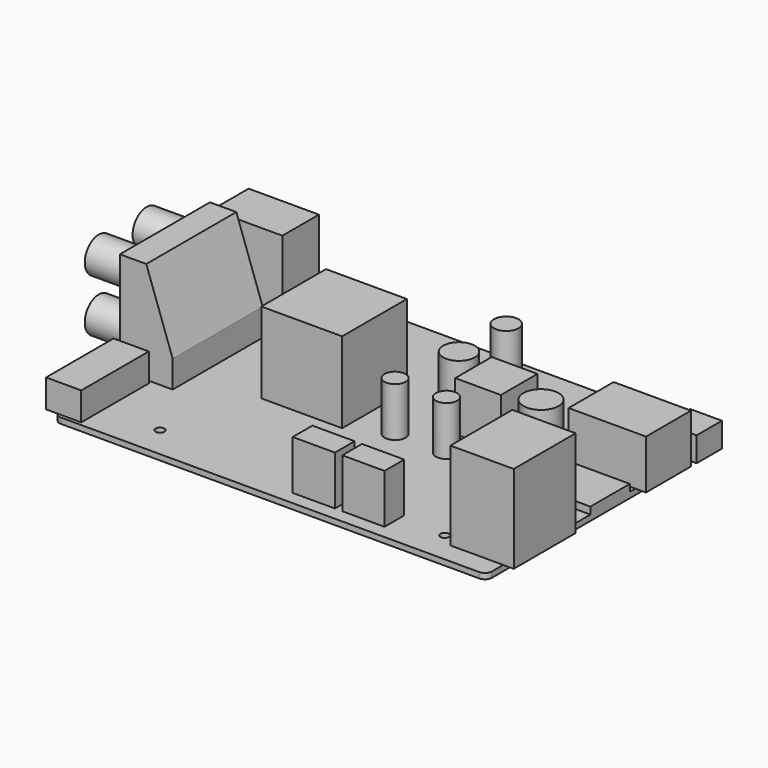
from build123d import *

# Parameters (mm, degrees)
F0_R      = 1.25
F1_DEPTH  = 1.6
F2_W      = 3
F2_H      = 7
F2_W_2    = 6
F3_DEPTH  = 5
F4_DEPTH  = 8
F2_W_3    = 14
F2_H_2    = 16
F2_W_4    = 13
F5_DEPTH  = 29
F6_W      = 32
F6_H      = 29
F6_R      = 5
F6_R_2    = 4
F7_DEPTH  = 12
F9_DEPTH  = 32
F2_H_3    = 13
F2_W_5    = 17
F10_DEPTH = 26
F2_H_4    = 9
F11_DEPTH = 7
F2_W_6    = 19
F2_R      = 3.5
F2_R_2    = 4.5
F2_R_3    = 5
F2_R_4    = 3
F2_W_7    = 12
F12_DEPTH = 14
F2_W_8    = 15
F2_H_5    = 14
F13_DEPTH = 2
F2_H_6    = 22
F14_DEPTH = 25
F2_W_9    = 23
F2_H_7    = 23
F15_DEPTH = 23


with BuildPart() as f1:
    # F0 (on Top) → F1 (new body)
    with BuildSketch(Plane.XY):
        with BuildLine():
            Line((57.5, 42), (-61.5, 42))
            ThreePointArc((-61.5, 42), (-62.914214, 41.414214), (-63.5, 40))
            Line((-63.5, 40), (-63.5, -40))
            ThreePointArc((-63.5, -40), (-62.914214, -41.414214), (-61.5, -42))
            Line((-61.5, -42), (57.5, -42))
            ThreePointArc((57.5, -42), (58.914214, -41.414214), (59.5, -40))
            Line((59.5, -40), (59.5, 40))
            ThreePointArc((59.5, 40), (58.914214, 41.414214), (57.5, 42))
        make_face()
        with Locations((-40.5, -33)):
            Circle(F0_R, mode=Mode.SUBTRACT)
        with Locations((40.5, -33)):
            Circle(F0_R, mode=Mode.SUBTRACT)
        with Locations((-40.5, 33)):
            Circle(F0_R, mode=Mode.SUBTRACT)
        with Locations((40.5, 33)):
            Circle(F0_R, mode=Mode.SUBTRACT)
    extrude(amount=F1_DEPTH)

    # F2 (on face) → F3 (join)
    with BuildSketch(Plane.XY.offset(1.6)):
        with Locations((-65, 36.5)):
            Rectangle(F2_W, F2_H)
        with Locations((-60.5, 36.5)):
            Rectangle(F2_W_2, F2_H)
    extrude(amount=F3_DEPTH)

    # F2 (on face) → F4 (join)
    with BuildSketch(Plane.XY.offset(1.6)):
        with BuildLine():
            Line((-56.5, -17), (-63.5, -17))
            Line((-63.5, -17), (-63.5, -40))
            ThreePointArc((-63.5, -40), (-63.431852, -40.517638), (-63.232051, -41))
            Line((-63.232051, -41), (-56.5, -41))
            Line((-56.5, -41), (-56.5, -17))
        make_face()
        with BuildLine():
            Line((-63.5, -40), (-63.5, -17))
            Line((-63.5, -17), (-66.5, -17))
            Line((-66.5, -17), (-66.5, -41))
            Line((-66.5, -41), (-63.232051, -41))
            ThreePointArc((-63.232051, -41), (-63.431852, -40.517638), (-63.5, -40))
        make_face()
    extrude(amount=F4_DEPTH)

    # F2 (on face) → F5 (join)
    with BuildSketch(Plane.XY.offset(1.6)):
        with Locations((-70.5, 8)):
            Rectangle(F2_W_3, F2_H_2)
        with Locations((-57, 8)):
            Rectangle(F2_W_4, F2_H_2)
        with Locations((-70.5, -8)):
            Rectangle(F2_W_3, F2_H_2)
        with Locations((-57, -8)):
            Rectangle(F2_W_4, F2_H_2)
    extrude(amount=F5_DEPTH)

    # F6 (on face) → F7 (cut)
    with BuildSketch(Plane(origin=(-77.5, 0, 0), x_dir=(0, -1, 0), z_dir=(-1, 0, 0))):
        with Locations((0, 16.1)):
            Rectangle(F6_W, F6_H)
        with Locations((-8.5, 8.6)):
            Circle(F6_R, mode=Mode.SUBTRACT)
        with Locations((8.5, 8.6)):
            Circle(F6_R, mode=Mode.SUBTRACT)
        with Locations((-8.5, 23.6)):
            Circle(F6_R, mode=Mode.SUBTRACT)
        with Locations((8.5, 23.6)):
            Circle(F6_R, mode=Mode.SUBTRACT)
        with Locations((-8.5, 23.6)):
            Circle(F6_R_2)
        with Locations((8.5, 23.6)):
            Circle(F6_R_2)
        with Locations((-8.5, 8.6)):
            Circle(F6_R_2)
        with Locations((8.5, 8.6)):
            Circle(F6_R_2)
    extrude(amount=-F7_DEPTH, mode=Mode.SUBTRACT)

    # F8 (on face) → F9 (cut, through all)
    with BuildSketch(Plane(origin=(0, 16, 0), x_dir=(-1, 0, 0), z_dir=(0, 1, 0))):
        Polygon((50.5, 9.324275), (58, 30.6), (50.5, 30.6), align=None)
    extrude(amount=-F9_DEPTH, mode=Mode.SUBTRACT)

    # F2 (on face) → F10 (join)
    with BuildSketch(Plane.XY.offset(1.6)):
        with Locations((-65, 24.5)):
            Rectangle(F2_W, F2_H_3)
        with Locations((-55, 24.5)):
            Rectangle(F2_W_5, F2_H_3)
    extrude(amount=F10_DEPTH)

    # F2 (on face) → F11 (join)
    with BuildSketch(Plane.XY.offset(1.6)):
        with Locations((56.5, 33.5)):
            Rectangle(F2_W_2, F2_H_4)
        with Locations((61, 33.5)):
            Rectangle(F2_W, F2_H_4)
    extrude(amount=F11_DEPTH)

    # F2 (on face) → F12 (join)
    with BuildSketch(Plane.XY.offset(1.6)):
        with Locations((50, 19)):
            Rectangle(F2_W_6, F2_H_2)
        with Locations((61, 19)):
            Rectangle(F2_W, F2_H_2)
        with Locations((4.373364, 34.002684)):
            Circle(F2_R)
        with Locations((4.524074, 17)):
            Circle(F2_R_2)
        with Locations((18.344349, 13)):
            Rectangle(F2_W_4, F2_H_3)
        with Locations((33.176582, 10.356459)):
            Circle(F2_R_3)
        with Locations((15.981103, -1.763999)):
            Circle(F2_R_4)
        with Locations((1.36537, -1.763999)):
            Circle(F2_R_4)
        with Locations((7.36537, -34.65119)):
            Rectangle(F2_W_7, F2_H)
        with Locations((21.466679, -34.65119)):
            Rectangle(F2_W_7, F2_H)
    extrude(amount=F12_DEPTH)

    # F2 (on face) → F13 (join)
    with BuildSketch(Plane.XY.offset(1.6)):
        with Locations((52, 2)):
            Rectangle(F2_W_8, F2_H_5)
    extrude(amount=F13_DEPTH)

    # F2 (on face) → F14 (join)
    with BuildSketch(Plane.XY.offset(1.6)):
        with Locations((52, -25)):
            Rectangle(F2_W_8, F2_H_6)
        with Locations((61, -25)):
            Rectangle(F2_W, F2_H_6)
    extrude(amount=F14_DEPTH)

    # F2 (on face) → F15 (join)
    with BuildSketch(Plane.XY.offset(1.6)):
        with Locations((-21, 4.5)):
            Rectangle(F2_W_9, F2_H_7)
    extrude(amount=F15_DEPTH)


solid = f1.part
